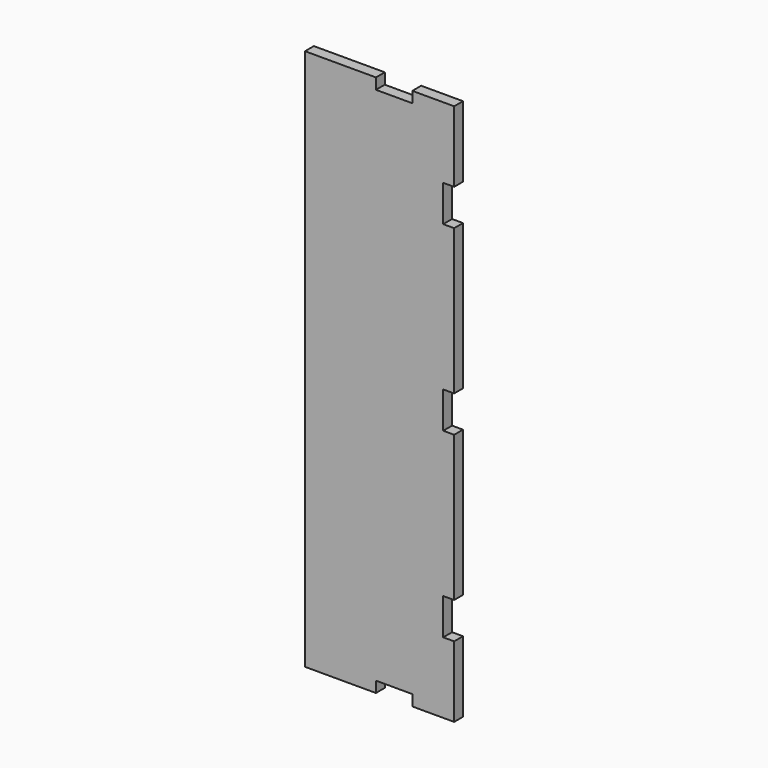
from build123d import *

# Parameters (mm, degrees)
F1_DEPTH = 3.048


with BuildPart() as f1:
    # F0 (on Front) → F1 (new body)
    with BuildSketch(Plane.XZ):
        Polygon((9.000007, -71.499984), (9.000007, -74.500003), (20.50001, -74.500003), (20.50001, -54.999992), (17.500016, -54.999992), (17.500016, -44.999986), (20.50001, -44.999986), (20.50001, -4.99999), (17.500016, -4.99999), (17.500016, 5.000015), (20.50001, 5.000015), (20.50001, 45.000012), (17.500016, 45.000012), (17.500016, 54.999992), (20.50001, 54.999992), (20.50001, 74.500003), (9.000007, 74.500003), (9.000007, 71.500009), (-0.999998, 71.500009), (-0.999998, 74.500003), (-20.499984, 74.500003), (-20.499984, -74.500003), (-0.999998, -74.500003), (-0.999998, -71.499984), align=None)
    extrude(amount=F1_DEPTH)


solid = f1.part
